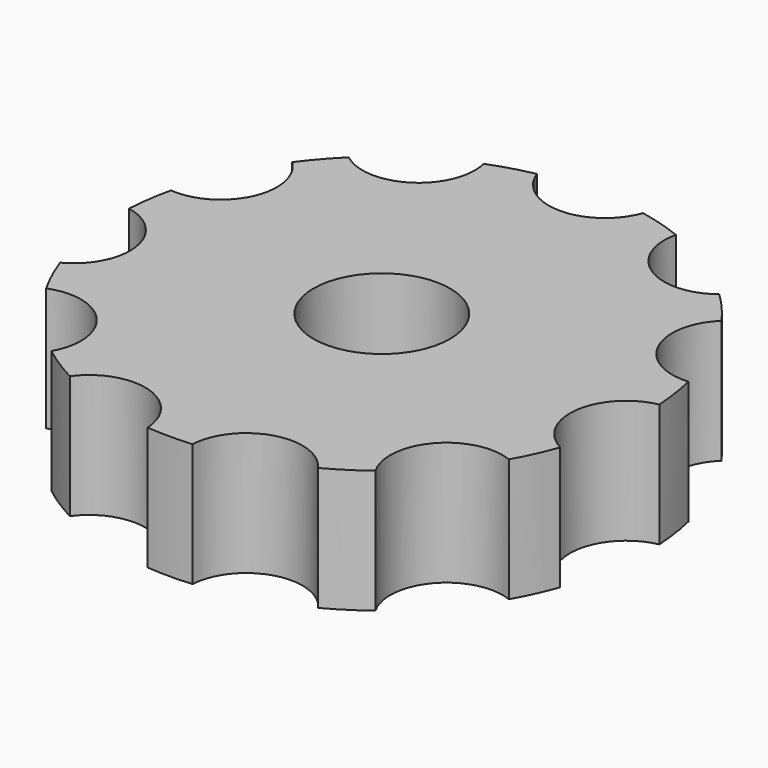
from build123d import *

# Parameters (mm, degrees)
SKETCH024_R           = 9.9166910254
PAD016_DEPTH          = 4.6
SKETCH025_R           = 2.1
POCKET004_DEPTH       = 61.4476740325
POLARPATTERN001_COUNT = 11
POCKET005_DEPTH       = 4.601
SKETCH037_R           = 2.55
POCKET012_DEPTH       = 2


with BuildPart() as part:
    # Sketch024 → Pad016 (new body)
    with BuildSketch(Plane.XY):
        Circle(SKETCH024_R)
    extrude(amount=PAD016_DEPTH)

    # Sketch025 (on Face3 of Pad016) → Pocket004 (cut, through all)
    with BuildSketch(Plane.XY.offset(4.6)):
        with Locations((0, 10.4166910254)):
            Circle(SKETCH025_R)
    pocket004 = extrude(amount=-POCKET004_DEPTH, mode=Mode.SUBTRACT)

    # PolarPattern001: Pocket004 ×11 about axis
    polarpattern001_axis = Axis((0, 0, 4.6), (0, 0, 1))
    for i in range(1, POLARPATTERN001_COUNT):
        add(pocket004.rotate(polarpattern001_axis, i * 360 / POLARPATTERN001_COUNT), mode=Mode.SUBTRACT)

    # Sketch026 (on Face4 of PolarPattern001) → Pocket005 (cut, through all)
    with BuildSketch(Plane.XY.offset(4.6)):
        with BuildLine():
            ThreePointArc((2.15, 1.3711309201), (-2.55, 0), (2.15, -1.3711309201))
            Line((2.15, -1.3711309201), (2.15, 1.3711309201))
        make_face()
    extrude(amount=-POCKET005_DEPTH, mode=Mode.SUBTRACT)

    # Sketch037 (on Face4 of Pocket005) → Pocket012 (cut)
    with BuildSketch(Plane.XY.offset(4.6)):
        Circle(SKETCH037_R)
    extrude(amount=-POCKET012_DEPTH, mode=Mode.SUBTRACT)


with BuildPart() as part_1:
    # Body004 placement: moved
    add(part.part.moved(Location((-4.85, -48.15, 2.2))))


solid = part_1.part
